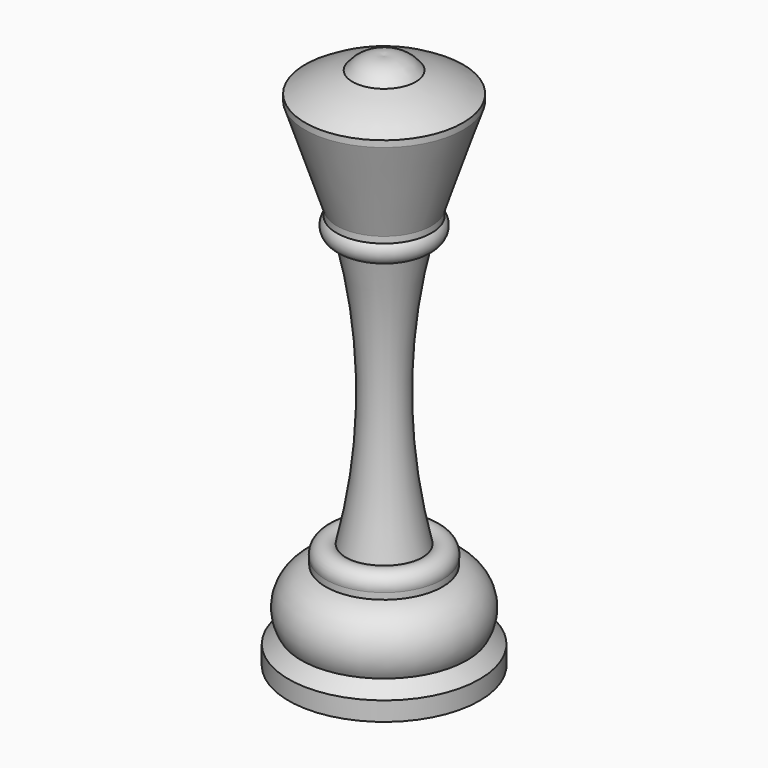
from build123d import *


with BuildPart() as f1:
    # F0 (on Front) → F1 (revolve)
    with BuildSketch(Plane.XZ):
        with BuildLine():
            ThreePointArc((12.5, -5.27), (8.884681, -3.326098), (5, -2))
            ThreePointArc((5, -2), (2.792257, -0.269358), (0, 0))
            Line((0, 0), (0, -84.99))
            Line((0, -84.99), (15.135192, -84.99))
            Line((15.135192, -84.99), (15.135192, -81.99))
            Line((15.135192, -81.99), (13.135192, -79.99))
            ThreePointArc((13.135192, -79.99), (13.50735, -74.505823), (9.257205, -71.02))
            Line((9.257205, -71.02), (9.257205, -70.02))
            ThreePointArc((9.257205, -70.02), (8.366591, -67.818111), (6, -68.02))
            ThreePointArc((6, -68.02), (3.463843, -46.805), (6, -25.59))
            ThreePointArc((6, -25.59), (7.822087, -24.414621), (7.502531, -22.27))
            Line((7.502531, -22.27), (7.502531, -21.27))
            Line((7.502531, -21.27), (12.5, -6.27))
            Line((12.5, -6.27), (12.5, -5.27))
        make_face()
    revolve(axis=Axis((0, 0, -42.495), (0, 0, 1)))


solid = f1.part
